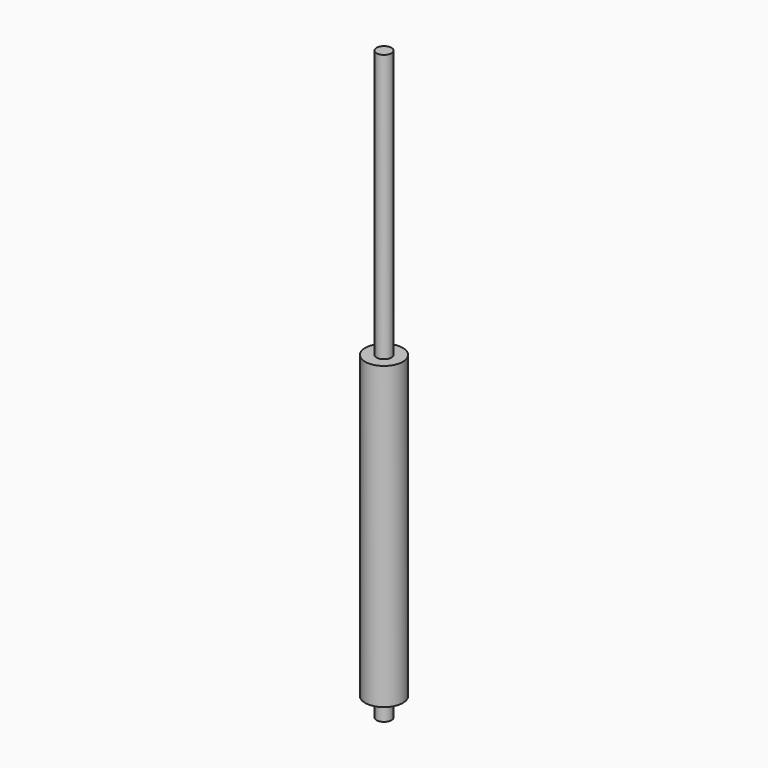
from build123d import *

# Parameters (mm, degrees)
F0_R     = 7.5819
F1_DEPTH = 121.031
F2_R     = 3
F3_DEPTH = 7.62
F4_R     = 3
F5_DEPTH = 107.95
F6_DEPTH = 107.95


with BuildPart() as f1:
    # F0 (on Top) → F1 (new body)
    with BuildSketch(Plane.XY):
        Circle(F0_R)
    extrude(amount=F1_DEPTH)

    # F2 (on face) → F3 (join)
    with BuildSketch(Plane(origin=(0, 0, 0), x_dir=(1, 0, 0), z_dir=(0, 0, -1))):
        Circle(F2_R)
    extrude(amount=F3_DEPTH)

    # F4 (on face) → F5 (cut)
    with BuildSketch(Plane.XY.offset(121.031)):
        Circle(F4_R)
    extrude(amount=-F5_DEPTH, mode=Mode.SUBTRACT)


with BuildPart() as f6:
    # F4 (on face) → F6 (new body)
    with BuildSketch(Plane.XY.offset(121.031)):
        Circle(F4_R)
    extrude(amount=F6_DEPTH)


solid = Compound([f1.part, f6.part])
